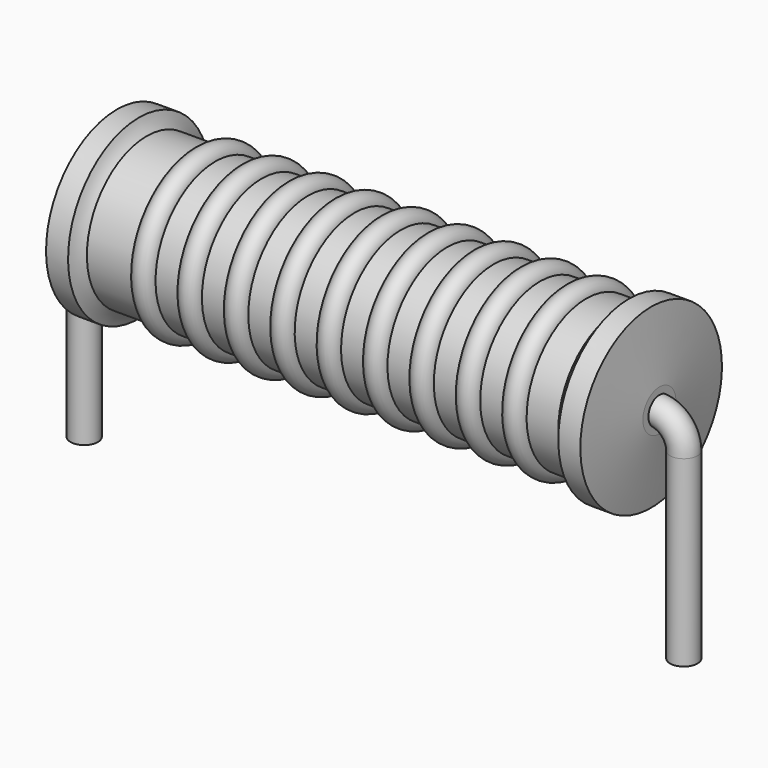
from build123d import *

# Parameters (mm, degrees)
SKETCH_R = 0.35


with BuildPart() as revolution:
    # Sketch002 → Revolution (revolve)
    with BuildSketch(Plane.XZ):
        with BuildLine():
            Line((0.83, 4.6), (1.39, 4.6))
            ThreePointArc((1.39, 4.6), (1.47006, 4.414285), (1.588, 4.25))
            Line((1.588, 4.25), (13.57, 4.25))
            ThreePointArc((13.57, 4.25), (13.728036, 4.410572), (13.85, 4.6))
            Line((13.85, 4.6), (14.41, 4.6))
            ThreePointArc((14.62, 2.875), (14.516623, 3.737698), (14.41, 4.6))
            Line((14.62, 2.35), (14.62, 2.875))
            Line((0.62, 2.35), (14.62, 2.35))
            Line((0.62, 2.35), (0.62, 2.875))
            ThreePointArc((0.83, 4.6), (0.723377, 3.737698), (0.62, 2.875))
        make_face()
    revolve(axis=Axis((0.62, 0, 2.35), (1, 0, 0)))


with BuildPart() as sweep_body:
    # Sweep: sweep along a path in Sketch001
    with BuildLine(Plane.XZ) as sweep_path:
        Line((0, -3), (0, 1.65))
        ThreePointArc((0, 1.65), (0.205028, 2.144977), (0.700007, 2.35))
        Line((0.700007, 2.35), (14.54, 2.35))
        ThreePointArc((14.54, 2.35), (15.034975, 2.144975), (15.24, 1.65))
        Line((15.24, 1.65), (15.24, -3))
    # Sketch → Sweep (sweep)
    with BuildSketch(Plane.XY.offset(-2)):
        Circle(SKETCH_R)
    sweep(path=sweep_path.line)


with BuildPart() as revolution001:
    # Sketch003 → Revolution001 (revolve)
    with BuildSketch(Plane.XZ):
        with BuildLine():
            ThreePointArc((3.338947, 4.194), (3.044211, 4.488737), (2.749474, 4.194))
            Line((2.16, 4.194), (2.749474, 4.194))
            Line((2.16, 4.194), (2.16, 3.744))
            Line((2.16, 3.744), (13.36, 3.744))
            Line((13.36, 3.744), (13.36, 4.194))
            Line((12.770526, 4.194), (13.36, 4.194))
            ThreePointArc((12.770526, 4.194), (12.475789, 4.488737), (12.181053, 4.194))
            Line((11.591579, 4.194), (12.181053, 4.194))
            ThreePointArc((11.591579, 4.194), (11.296842, 4.488737), (11.002105, 4.194))
            Line((10.412632, 4.194), (11.002105, 4.194))
            ThreePointArc((10.412632, 4.194), (10.117895, 4.488737), (9.823158, 4.194))
            Line((9.233684, 4.194), (9.823158, 4.194))
            ThreePointArc((9.233684, 4.194), (8.938947, 4.488737), (8.644211, 4.194))
            Line((8.054737, 4.194), (8.644211, 4.194))
            ThreePointArc((8.054737, 4.194), (7.76, 4.488737), (7.465263, 4.194))
            Line((6.875789, 4.194), (7.465263, 4.194))
            ThreePointArc((6.875789, 4.194), (6.581053, 4.488737), (6.286316, 4.194))
            Line((5.696842, 4.194), (6.286316, 4.194))
            ThreePointArc((5.696842, 4.194), (5.402105, 4.488737), (5.107368, 4.194))
            Line((4.517895, 4.194), (5.107368, 4.194))
            ThreePointArc((4.517895, 4.194), (4.223158, 4.488737), (3.928421, 4.194))
            Line((3.338947, 4.194), (3.928421, 4.194))
        make_face()
    revolve(axis=Axis((0.97, 0, 2.35), (1, 0, 0)))


solid = Compound([revolution.part, sweep_body.part, revolution001.part])
